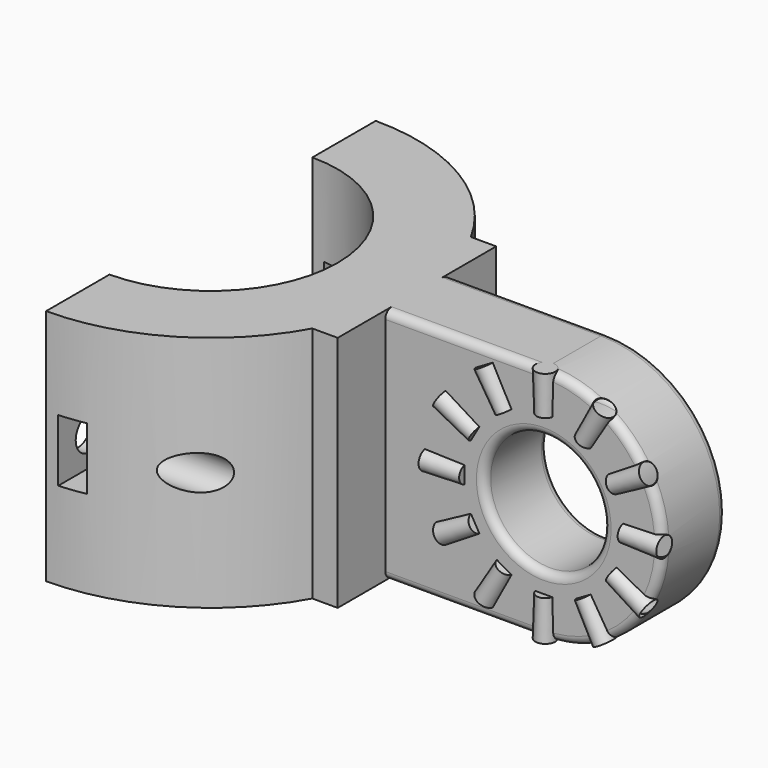
from build123d import *

# Parameters (mm, degrees)
PAD002_DEPTH       = 15
SKETCH004_R        = 2.2
HOLE_DEPTH         = 26.001
SKETCH005_W        = 3.3
SKETCH005_H        = 7.85
POCKET_DEPTH       = 156.844419
SKETCH_R           = 7.5
PAD_DEPTH          = 5
FILLET_R           = 1
POLARPATTERN_COUNT = 12
SKETCH002_W        = 30
SKETCH002_H        = 25
PAD003_DEPTH       = 10


with BuildPart() as body001:
    # Sketch003 → Pad002 (new body, symmetric)
    with BuildSketch(Plane.XY):
        with BuildLine():
            ThreePointArc((-46, -16), (-30, 0), (-46, 16))
            Line((-46, 26), (-46, 16))
            ThreePointArc((-46, -26), (-20, 0), (-46, 26))
            Line((-46, -16), (-46, -26))
        make_face()
    extrude(amount=PAD002_DEPTH, both=True)

    # Sketch004 (on Face2 of Pad002) → Hole (cut, through all)
    with BuildSketch(Plane(origin=(-46, 0, 0), x_dir=(0, -1, 0), z_dir=(-1, 0, 0))):
        with Locations((-21, 0)):
            Circle(SKETCH004_R)
        with Locations((21, 0)):
            Circle(SKETCH004_R)
    extrude(amount=-HOLE_DEPTH, mode=Mode.SUBTRACT)

    # Sketch005 → Pocket (cut, through all)
    with BuildSketch(Plane.XZ):
        with Locations((-42.85, 0)):
            Rectangle(SKETCH005_W, SKETCH005_H)
    pocket = extrude(amount=-POCKET_DEPTH, mode=Mode.SUBTRACT)

    # Mirrored: Pocket across XZ
    add(pocket.mirror(Plane.XZ), mode=Mode.SUBTRACT)


with BuildPart() as fusion002:
    # Sketch → Pad (new body, symmetric)
    with BuildSketch(Plane.XZ):
        with BuildLine():
            ThreePointArc((-5.2e-05, -15), (15, -2.6e-05), (0, 15))
            Line((0, 15), (-20, 15))
            Line((-20, 15), (-20, -15))
            Line((-20, -15), (-5.2e-05, -15))
        make_face()
        Circle(SKETCH_R, mode=Mode.SUBTRACT)
    extrude(amount=PAD_DEPTH, both=True)

    # Fillet
    fillet_edges = [fusion002.edges().sort_by_distance(p)[0] for p in [
        (15, -5, -2.6e-05),
        (-7.5, -5, 0),
        (15, 5, -2.6e-05),
        (-7.5, 5, 0),
    ]]
    fillet(fillet_edges, radius=FILLET_R)

    # Sketch001 (on Face7 of Pad) → Revolution (revolve)
    with BuildSketch(Plane.XZ.offset(4.75)):
        Polygon((10, 0), (10, -1.1), (15, -1.25), (15, 0), align=None)
    revolution = revolve(axis=Axis((0, -4.75, 0), (1, 0, 0)))

    # PolarPattern: Revolution ×12 about axis
    polarpattern_axis = Axis((0, -4.75, 0), (0, -1, 0))
    for i in range(1, POLARPATTERN_COUNT):
        add(revolution.rotate(polarpattern_axis, i * 360 / POLARPATTERN_COUNT))

    # Sketch002 → Pad003 (join)
    with BuildSketch(Plane(origin=(-20, 0, 0), x_dir=(0, 0, -1), z_dir=(-1, 0, 0))):
        Rectangle(SKETCH002_W, SKETCH002_H)
    extrude(amount=PAD003_DEPTH)

    # Fusion002: union Body001
    add(body001.part)


solid = fusion002.part
